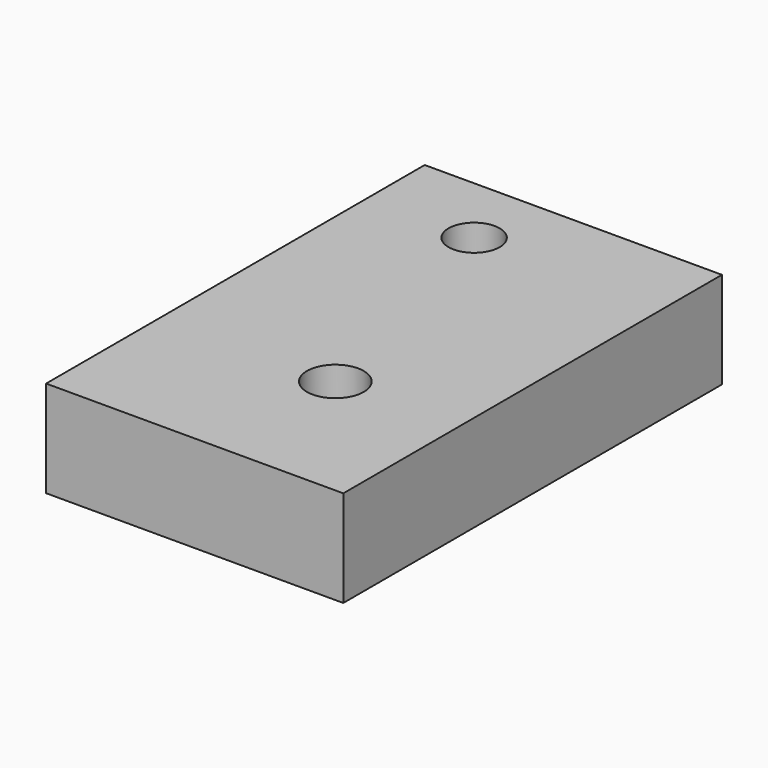
from build123d import *

# Parameters (mm, degrees)
F0_W     = 15.7
F0_H     = 5.1
F1_DEPTH = 25
F2_R     = 1.35
F3_DEPTH = 5.1
F4_R     = 1.5
F5_DEPTH = 5.1


with BuildPart() as f1:
    # F0 (on Front) → F1 (new body)
    with BuildSketch(Plane.XZ):
        with Locations((-17.389617, 2.55)):
            Rectangle(F0_W, F0_H)
    extrude(amount=F1_DEPTH)

    # F2 (on face) → F3 (cut)
    with BuildSketch(Plane.XY.offset(5.1)):
        with Locations((-19.589617, -3.8)):
            Circle(F2_R)
    extrude(amount=-F3_DEPTH, mode=Mode.SUBTRACT)

    # F4 (on face) → F5 (cut)
    with BuildSketch(Plane.XY.offset(5.1)):
        with Locations((-16.039617, -17.4)):
            Circle(F4_R)
    extrude(amount=-F5_DEPTH, mode=Mode.SUBTRACT)


solid = f1.part
